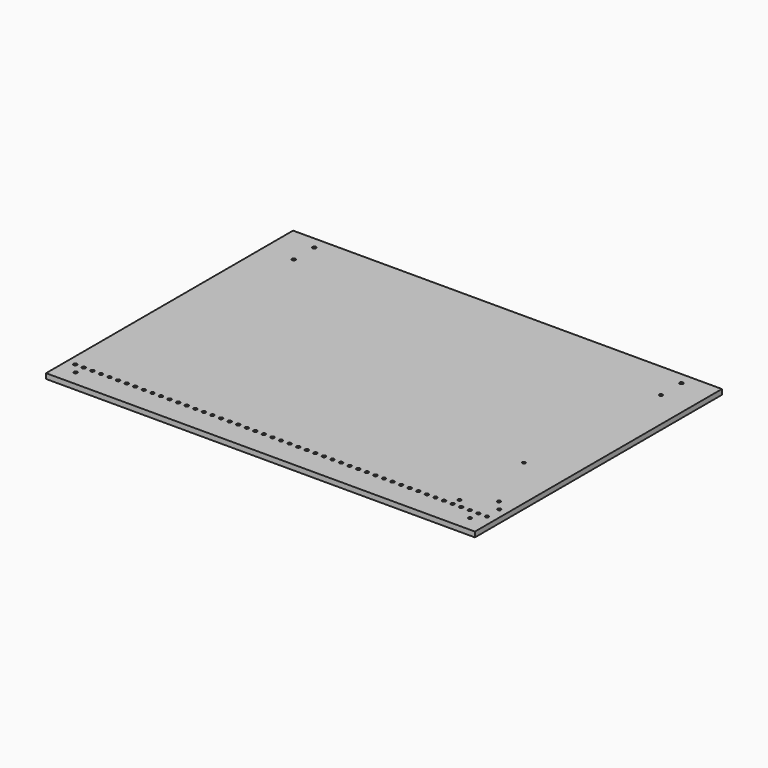
from build123d import *

# Parameters (mm, degrees)
SKETCH_W    = 250
SKETCH_H    = 180
SKETCH_R    = 1.023987
SKETCH_R_2  = 1.004735
SKETCH_R_3  = 1.040587
SKETCH_R_4  = 0.983061
SKETCH_R_5  = 0.893442
SKETCH_R_6  = 0.989754
SKETCH_R_7  = 0.971299
SKETCH_R_8  = 1.016087
SKETCH_R_9  = 1.012836
SKETCH_R_10 = 0.965648
SKETCH_R_11 = 0.950368
PAD_DEPTH   = 3


with BuildPart() as part:
    # Sketch → Pad (new body)
    with BuildSketch(Plane.XY):
        with Locations((-194.259232, -136.843185)):
            Rectangle(SKETCH_W, SKETCH_H)
        with Locations((-301.259232, -53.843185)):
            Circle(SKETCH_R, mode=Mode.SUBTRACT)
        with Locations((-301.259232, -68.843185)):
            Circle(SKETCH_R_2, mode=Mode.SUBTRACT)
        with Locations((-87.259232, -53.843185)):
            Circle(SKETCH_R_3, mode=Mode.SUBTRACT)
        with Locations((-87.259232, -68.843185)):
            Circle(SKETCH_R_4, mode=Mode.SUBTRACT)
        with Locations((-94.259232, -159.843185)):
            Circle(SKETCH_R_5, mode=Mode.SUBTRACT)
        with Locations((-94.259232, -206.843185)):
            Circle(SKETCH_R_6, mode=Mode.SUBTRACT)
        with Locations((-79.259232, -217.843185)):
            Circle(SKETCH_R_7, mode=Mode.SUBTRACT)
        with Locations((-309.259232, -217.843185)):
            Circle(SKETCH_R_8, mode=Mode.SUBTRACT)
        with Locations((-74.259232, -211.843185)):
            Circle(SKETCH_R_9, mode=Mode.SUBTRACT)
        with Locations((-79.259232, -211.843185)):
            Circle(SKETCH_R_9, mode=Mode.SUBTRACT)
        with Locations((-84.259232, -211.843185)):
            Circle(SKETCH_R_9, mode=Mode.SUBTRACT)
        with Locations((-89.259232, -211.843185)):
            Circle(SKETCH_R_9, mode=Mode.SUBTRACT)
        with Locations((-94.259232, -211.843185)):
            Circle(SKETCH_R_9, mode=Mode.SUBTRACT)
        with Locations((-99.259232, -211.843185)):
            Circle(SKETCH_R_9, mode=Mode.SUBTRACT)
        with Locations((-104.259232, -211.843185)):
            Circle(SKETCH_R_9, mode=Mode.SUBTRACT)
        with Locations((-109.259232, -211.843185)):
            Circle(SKETCH_R_9, mode=Mode.SUBTRACT)
        with Locations((-114.259232, -211.843185)):
            Circle(SKETCH_R_9, mode=Mode.SUBTRACT)
        with Locations((-119.259232, -211.843185)):
            Circle(SKETCH_R_9, mode=Mode.SUBTRACT)
        with Locations((-124.259232, -211.843185)):
            Circle(SKETCH_R_9, mode=Mode.SUBTRACT)
        with Locations((-129.259232, -211.843185)):
            Circle(SKETCH_R_9, mode=Mode.SUBTRACT)
        with Locations((-134.259232, -211.843185)):
            Circle(SKETCH_R_9, mode=Mode.SUBTRACT)
        with Locations((-139.259232, -211.843185)):
            Circle(SKETCH_R_9, mode=Mode.SUBTRACT)
        with Locations((-144.259232, -211.843185)):
            Circle(SKETCH_R_9, mode=Mode.SUBTRACT)
        with Locations((-149.259232, -211.843185)):
            Circle(SKETCH_R_9, mode=Mode.SUBTRACT)
        with Locations((-154.259232, -211.843185)):
            Circle(SKETCH_R_9, mode=Mode.SUBTRACT)
        with Locations((-159.259232, -211.843185)):
            Circle(SKETCH_R_9, mode=Mode.SUBTRACT)
        with Locations((-164.259232, -211.843185)):
            Circle(SKETCH_R_9, mode=Mode.SUBTRACT)
        with Locations((-169.259232, -211.843185)):
            Circle(SKETCH_R_9, mode=Mode.SUBTRACT)
        with Locations((-174.259232, -211.843185)):
            Circle(SKETCH_R_9, mode=Mode.SUBTRACT)
        with Locations((-179.259232, -211.843185)):
            Circle(SKETCH_R_9, mode=Mode.SUBTRACT)
        with Locations((-184.259232, -211.843185)):
            Circle(SKETCH_R_9, mode=Mode.SUBTRACT)
        with Locations((-189.259232, -211.843185)):
            Circle(SKETCH_R_9, mode=Mode.SUBTRACT)
        with Locations((-194.259232, -211.843185)):
            Circle(SKETCH_R_9, mode=Mode.SUBTRACT)
        with Locations((-199.259232, -211.843185)):
            Circle(SKETCH_R_9, mode=Mode.SUBTRACT)
        with Locations((-204.259232, -211.843185)):
            Circle(SKETCH_R_9, mode=Mode.SUBTRACT)
        with Locations((-209.259232, -211.843185)):
            Circle(SKETCH_R_9, mode=Mode.SUBTRACT)
        with Locations((-214.259232, -211.843185)):
            Circle(SKETCH_R_9, mode=Mode.SUBTRACT)
        with Locations((-219.259232, -211.843185)):
            Circle(SKETCH_R_9, mode=Mode.SUBTRACT)
        with Locations((-224.259232, -211.843185)):
            Circle(SKETCH_R_9, mode=Mode.SUBTRACT)
        with Locations((-229.259232, -211.843185)):
            Circle(SKETCH_R_9, mode=Mode.SUBTRACT)
        with Locations((-234.259232, -211.843185)):
            Circle(SKETCH_R_9, mode=Mode.SUBTRACT)
        with Locations((-239.259232, -211.843185)):
            Circle(SKETCH_R_9, mode=Mode.SUBTRACT)
        with Locations((-244.259232, -211.843185)):
            Circle(SKETCH_R_9, mode=Mode.SUBTRACT)
        with Locations((-249.259232, -211.843185)):
            Circle(SKETCH_R_9, mode=Mode.SUBTRACT)
        with Locations((-254.259232, -211.843185)):
            Circle(SKETCH_R_9, mode=Mode.SUBTRACT)
        with Locations((-259.259232, -211.843185)):
            Circle(SKETCH_R_9, mode=Mode.SUBTRACT)
        with Locations((-264.259232, -211.843185)):
            Circle(SKETCH_R_9, mode=Mode.SUBTRACT)
        with Locations((-269.259232, -211.843185)):
            Circle(SKETCH_R_9, mode=Mode.SUBTRACT)
        with Locations((-274.259232, -211.843185)):
            Circle(SKETCH_R_9, mode=Mode.SUBTRACT)
        with Locations((-279.259232, -211.843185)):
            Circle(SKETCH_R_9, mode=Mode.SUBTRACT)
        with Locations((-284.259232, -211.843185)):
            Circle(SKETCH_R_9, mode=Mode.SUBTRACT)
        with Locations((-289.259232, -211.843185)):
            Circle(SKETCH_R_9, mode=Mode.SUBTRACT)
        with Locations((-294.259232, -211.843185)):
            Circle(SKETCH_R_9, mode=Mode.SUBTRACT)
        with Locations((-299.259232, -211.843185)):
            Circle(SKETCH_R_9, mode=Mode.SUBTRACT)
        with Locations((-304.259232, -211.843185)):
            Circle(SKETCH_R_9, mode=Mode.SUBTRACT)
        with Locations((-309.259232, -211.843185)):
            Circle(SKETCH_R_9, mode=Mode.SUBTRACT)
        with Locations((-314.259232, -211.843185)):
            Circle(SKETCH_R_9, mode=Mode.SUBTRACT)
        with Locations((-74.259232, -202.843185)):
            Circle(SKETCH_R_10, mode=Mode.SUBTRACT)
        with Locations((-79.259232, -196.843185)):
            Circle(SKETCH_R_11, mode=Mode.SUBTRACT)
    extrude(amount=PAD_DEPTH)


solid = part.part
